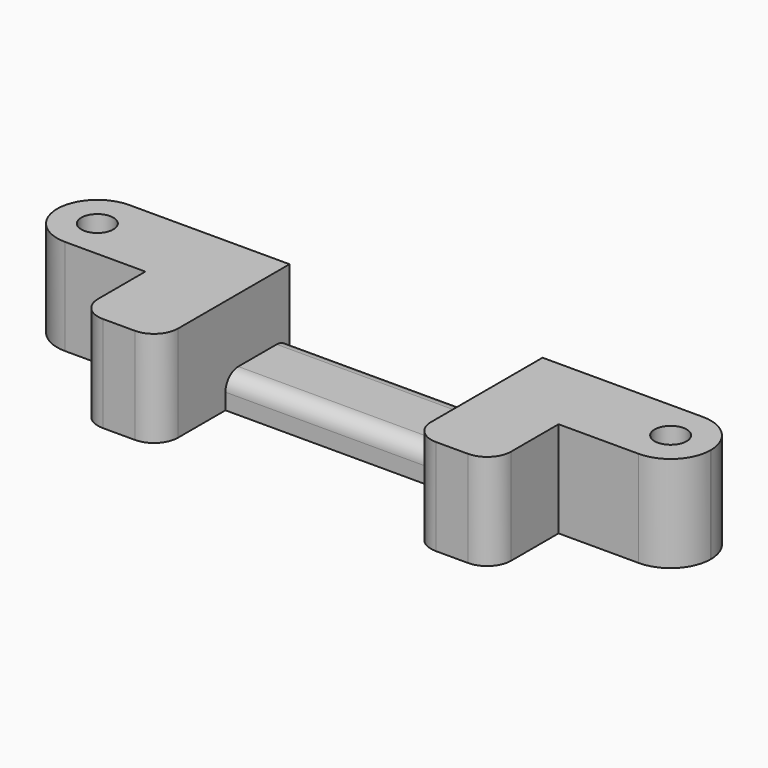
from build123d import *

# Parameters (mm, degrees)
CYLINDER264_R     = 2
CYLINDER264_DEPTH = 12
CYLINDER265_R     = 2
CYLINDER265_DEPTH = 12
BOX423_W          = 25
BOX423_H          = 10
BOX423_DEPTH      = 12
BOX424_W          = 25
BOX424_H          = 10
BOX424_DEPTH      = 12
BOX425_W          = 10
BOX425_H          = 20.4
BOX425_DEPTH      = 12
BOX426_W          = 10
BOX426_H          = 20.4
BOX426_DEPTH      = 12
BOX422_W          = 81.6
BOX422_H          = 10
BOX422_DEPTH      = 4
FILLET010_R       = 4.99
FILLET011_R       = 4.99
FILLET012_R       = 3
FILLET013_R       = 2


with BuildPart() as cylinder264:
    # Cylinder264 → Cylinder264 (new body)
    with BuildSketch(Plane(origin=(1.4, 70, 0), x_dir=(1, 0, 0), z_dir=(0, 0, 1))):
        Circle(CYLINDER264_R)
    extrude(amount=CYLINDER264_DEPTH)


with BuildPart() as fusion270:
    # Cylinder265 → Cylinder265 (new body)
    with BuildSketch(Plane(origin=(-70.2, 70, 0), x_dir=(1, 0, 0), z_dir=(0, 0, 1))):
        Circle(CYLINDER265_R)
    extrude(amount=CYLINDER265_DEPTH)

    # Fusion270: union Cylinder264
    add(cylinder264.part)


with BuildPart() as box423:
    # Box423 → Box423 (new body)
    with BuildSketch(Plane(origin=(-75.2, 65, 0), x_dir=(1, 0, 0), z_dir=(0, 0, 1))):
        with Locations((12.5, 5)):
            Rectangle(BOX423_W, BOX423_H)
    extrude(amount=BOX423_DEPTH)


with BuildPart() as box424:
    # Box424 → Box424 (new body)
    with BuildSketch(Plane(origin=(-18.6, 65, 0), x_dir=(1, 0, 0), z_dir=(0, 0, 1))):
        with Locations((12.5, 5)):
            Rectangle(BOX424_W, BOX424_H)
    extrude(amount=BOX424_DEPTH)


with BuildPart() as box425:
    # Box425 → Box425 (new body)
    with BuildSketch(Plane(origin=(-60.2, 54.6, 0), x_dir=(1, 0, 0), z_dir=(0, 0, 1))):
        with Locations((5, 10.2)):
            Rectangle(BOX425_W, BOX425_H)
    extrude(amount=BOX425_DEPTH)


with BuildPart() as box426:
    # Box426 → Box426 (new body)
    with BuildSketch(Plane(origin=(-18.6, 54.6, 0), x_dir=(1, 0, 0), z_dir=(0, 0, 1))):
        with Locations((5, 10.2)):
            Rectangle(BOX426_W, BOX426_H)
    extrude(amount=BOX426_DEPTH)


with BuildPart() as cut414:
    # Box422 → Box422 (new body)
    with BuildSketch(Plane(origin=(-75.2, 65, 0), x_dir=(1, 0, 0), z_dir=(0, 0, 1))):
        with Locations((40.8, 5)):
            Rectangle(BOX422_W, BOX422_H)
    extrude(amount=BOX422_DEPTH)

    # Fusion269: union Box423, Box424, Box425, Box426
    add(box423.part)
    add(box424.part)
    add(box425.part)
    add(box426.part)

    # Fillet010
    fillet010_edges = [cut414.edges().sort_by_distance(p)[0] for p in [
        (-75.2, 65, 8),
        (-75.2, 75, 8),
    ]]
    fillet(fillet010_edges, radius=FILLET010_R)

    # Fillet011
    fillet011_edges = [cut414.edges().sort_by_distance(p)[0] for p in [
        (6.4, 75, 8),
        (6.4, 65, 8),
    ]]
    fillet(fillet011_edges, radius=FILLET011_R)

    # Fillet012
    fillet012_edges = [cut414.edges().sort_by_distance(p)[0] for p in [
        (-8.6, 54.6, 6),
        (-18.6, 54.6, 6),
        (-50.2, 54.6, 6),
        (-60.2, 54.6, 6),
    ]]
    fillet(fillet012_edges, radius=FILLET012_R)

    # Fillet013
    fillet013_edges = [cut414.edges().sort_by_distance(p)[0] for p in [
        (-34.4, 65, 4),
        (-34.4, 75, 4),
    ]]
    fillet(fillet013_edges, radius=FILLET013_R)

    # Cut414: cut Fusion270
    add(fusion270.part, mode=Mode.SUBTRACT)


solid = cut414.part
